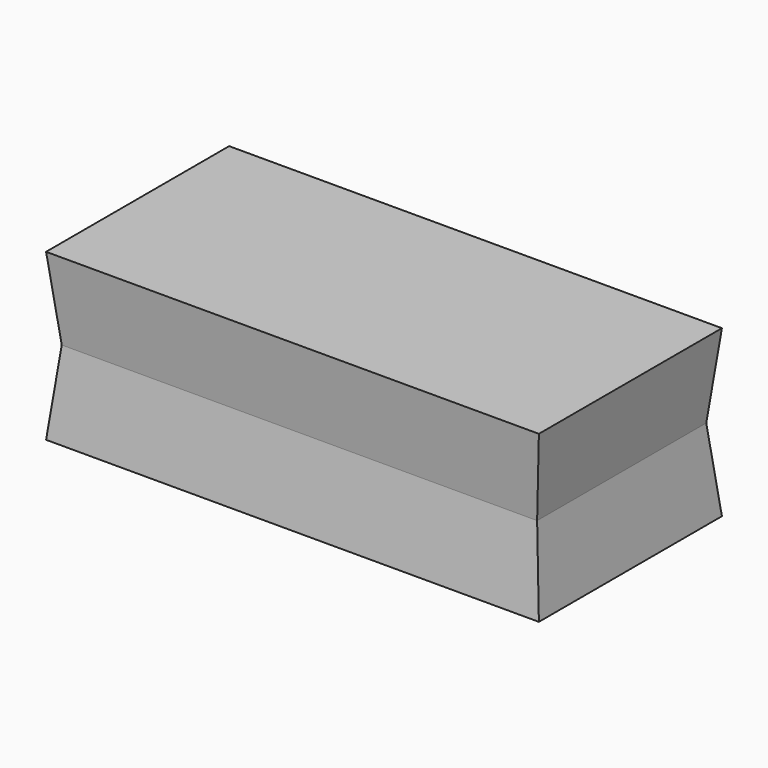
from build123d import *

# Parameters (mm, degrees)
F0_W     = 182.3483705521
F0_H     = 81.0872465372
F1_DEPTH = 31.75
F1_TAPER = -6


with BuildPart() as f1:
    # F0 (on Top) → F1 (new body, symmetric)
    with BuildSketch(Plane.XY):
        Rectangle(F0_W, F0_H)
    extrude(amount=F1_DEPTH, both=True, taper=F1_TAPER)


solid = f1.part
